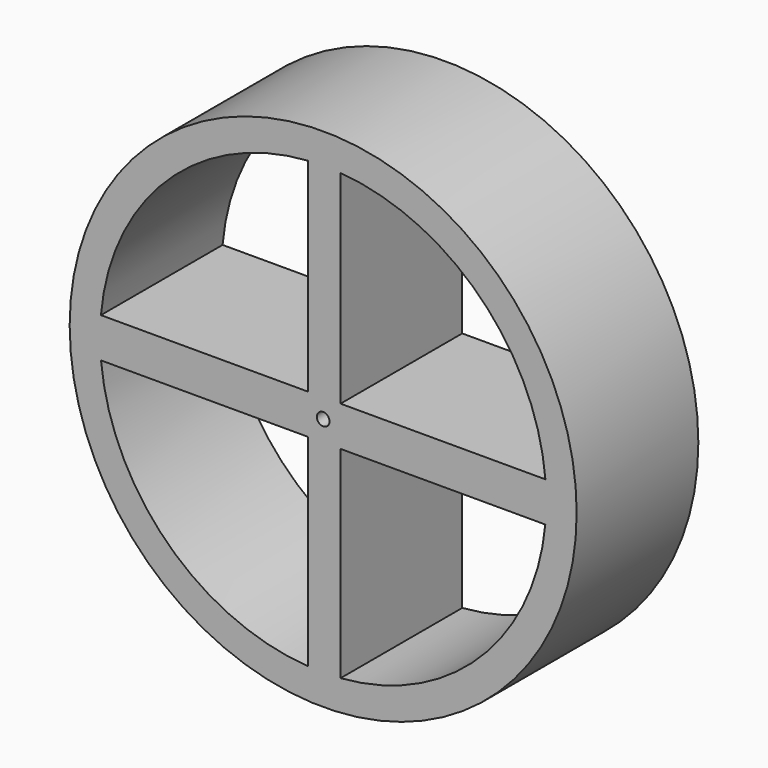
from build123d import *

# Parameters (mm, degrees)
F0_R     = 63.5
F0_R_2   = 1.5875
F1_DEPTH = 38.1


with BuildPart() as f1:
    # F0 (on Front) → F1 (new body)
    with BuildSketch(Plane.XZ):
        with Locations((-16.125669, 21.278876)):
            Circle(F0_R)
        with BuildLine():
            ThreePointArc((-19.895006, -34.47385), (-55.147708, -18.71931), (-71.768271, 16.133457))
            Line((-71.768271, 16.133457), (-19.895006, 16.133457))
            Line((-19.895006, 16.133457), (-19.895006, -34.47385))
        make_face(mode=Mode.SUBTRACT)
        with BuildLine():
            Line((-11.770886, -34.431179), (-11.770886, 16.133457))
            Line((-11.770886, 16.133457), (39.516932, 16.133457))
            ThreePointArc((39.516932, 16.133457), (23.105914, -18.513802), (-11.770886, -34.431179))
        make_face(mode=Mode.SUBTRACT)
        with BuildLine():
            ThreePointArc((-71.796996, 26.103588), (-55.262784, 61.16447), (-19.895006, 77.031602))
            Line((-19.895006, 77.031602), (-19.895006, 26.103588))
            Line((-19.895006, 26.103588), (-71.796996, 26.103588))
        make_face(mode=Mode.SUBTRACT)
        with Locations((-16.125669, 21.278876)):
            Circle(F0_R_2, mode=Mode.SUBTRACT)
        with BuildLine():
            Line((-11.770886, 26.103588), (-11.770886, 76.988931))
            ThreePointArc((-11.770886, 76.988931), (23.220398, 60.958359), (39.545657, 26.103588))
            Line((39.545657, 26.103588), (-11.770886, 26.103588))
        make_face(mode=Mode.SUBTRACT)
    extrude(amount=F1_DEPTH)


solid = f1.part
